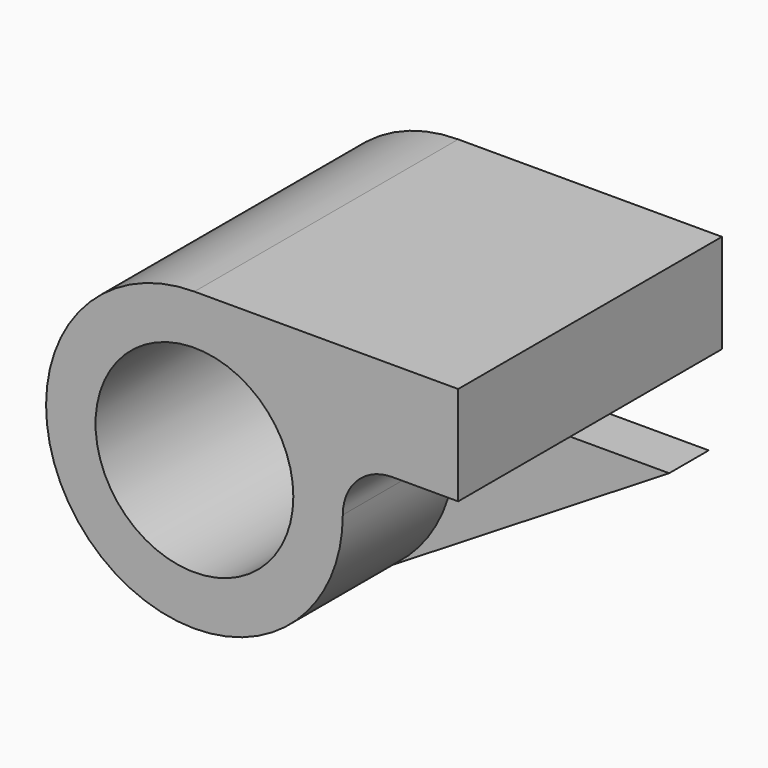
from build123d import *

# Parameters (mm, degrees)
F0_R     = 19.05
F1_DEPTH = 31.75
F2_DEPTH = 4.7625


with BuildPart() as f1:
    # F0 (on Front) → F1 (new body, symmetric)
    with BuildSketch(Plane.XZ):
        with BuildLine():
            ThreePointArc((15.004938, -24.318356), (24.952923, -13.924161), (28.575, 0))
            ThreePointArc((28.575, 0), (31.446927, 6.816322), (38.330852, 9.522202))
            Line((38.330852, 9.522202), (50.8, 9.522202))
            Line((50.8, 9.522202), (50.8, 28.575))
            Line((50.8, 28.575), (0, 28.575))
            ThreePointArc((0, 28.575), (-27.49025, -7.798512), (15.004938, -24.318356))
        make_face()
        Circle(F0_R, mode=Mode.SUBTRACT)
    extrude(amount=F1_DEPTH, both=True)

    # F0 (on Front) → F2 (join, symmetric)
    with BuildSketch(Plane.XZ):
        with BuildLine():
            ThreePointArc((38.330852, 9.522202), (31.446927, 6.816322), (28.575, 0))
            ThreePointArc((28.575, 0), (24.952923, -13.924161), (15.004938, -24.318356))
            Line((15.004938, -24.318356), (69.85, 9.522202))
            Line((69.85, 9.522202), (50.8, 9.522202))
            Line((50.8, 9.522202), (38.330852, 9.522202))
        make_face()
    extrude(amount=F2_DEPTH, both=True)


solid = f1.part
